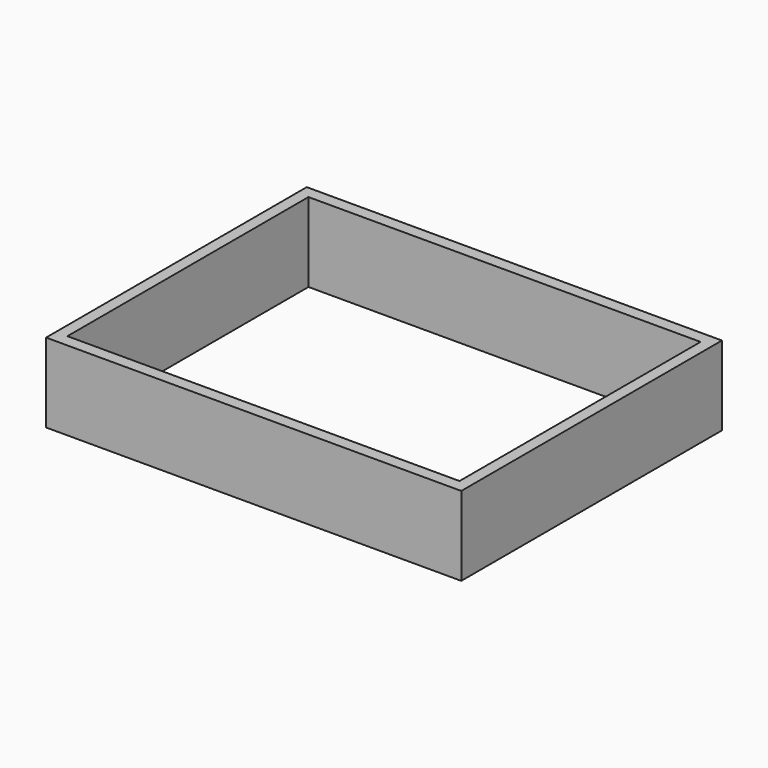
from build123d import *

# Parameters (mm, degrees)
F0_W     = 133.195832
F0_H     = 104.52173
F1_DEPTH = 25.4


with BuildPart() as f1:
    # F0 (on Top) → F1 (new body)
    with BuildSketch(Plane.XY):
        Rectangle(F0_W, F0_H)
        Polygon((-62.898032, -7.168526), (-62.898032, 48.329741), (-37.461329, 48.329741), (-34.455173, 48.329741), (2.312429, 48.329741), (62.898032, 48.329741), (62.898032, 26.824163), (62.898032, -48.329741), (-62.898032, -48.329741), (-62.898032, -9.24971), align=None, mode=Mode.SUBTRACT)
    extrude(amount=F1_DEPTH)


solid = f1.part
